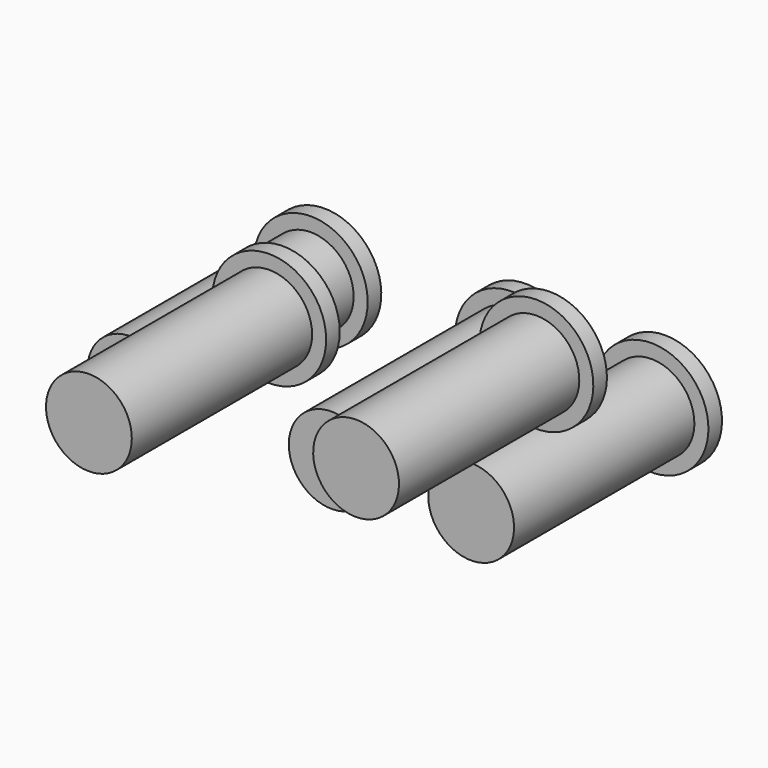
from build123d import *

# Parameters (mm, degrees)
F0_R     = 2.7559
F1_DEPTH = 15.5702
F0_R_2   = 3.6576
F2_DEPTH = 1.0922
F4_COUNT = 5


with BuildPart() as f1:
    # F0 (on Front) → F1 (new body)
    with BuildSketch(Plane.XZ):
        with Locations((0, 7.62)):
            Circle(F0_R)
    extrude(amount=F1_DEPTH)

    # F0 (on Front) → F2 (join)
    with BuildSketch(Plane.XZ):
        with Locations((0, 7.62)):
            Circle(F0_R_2)
        with Locations((0, 7.62)):
            Circle(F0_R, mode=Mode.SUBTRACT)
    extrude(amount=F2_DEPTH)


with BuildPart() as f4_1:
    # F4: instance of F1
    add(f1.part.rotate(Axis((0, -12.7, 0), (0, -1, 0)), 1 * 360 / F4_COUNT))


with BuildPart() as f4_2:
    # F4: instance of F1
    add(f1.part.rotate(Axis((0, -12.7, 0), (0, -1, 0)), 2 * 360 / F4_COUNT))


with BuildPart() as f4_3:
    # F4: instance of F1
    add(f1.part.rotate(Axis((0, -12.7, 0), (0, -1, 0)), 3 * 360 / F4_COUNT))


with BuildPart() as f4_4:
    # F4: instance of F1
    add(f1.part.rotate(Axis((0, -12.7, 0), (0, -1, 0)), 4 * 360 / F4_COUNT))


with BuildPart() as f4_1_1:
    # F5: moved
    add(f4_1.part.moved(Location((0, 12.3952, 0))))


with BuildPart() as f4_4_1:
    # F5: moved
    add(f4_4.part.moved(Location((0, 12.3952, 0))))


with BuildPart() as f4_2_1:
    # F6: moved
    add(f4_2.part.moved(Location((0, 25.0952, 0))))


with BuildPart() as f4_3_1:
    # F6: moved
    add(f4_3.part.moved(Location((0, 25.0952, 0))))


solid = Compound([f1.part, f4_1_1.part, f4_4_1.part, f4_2_1.part, f4_3_1.part])
